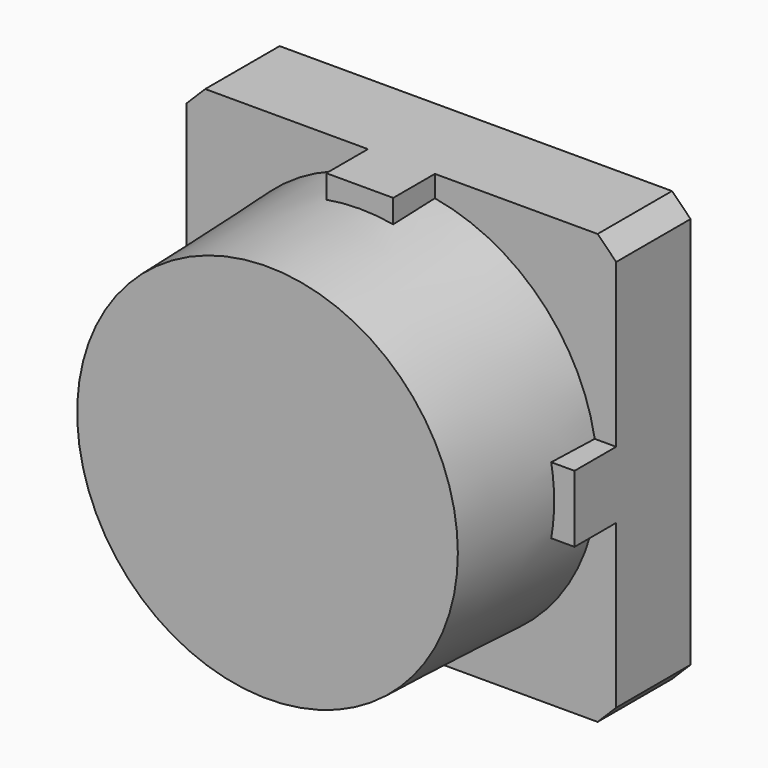
from build123d import *

# Parameters (mm, degrees)
PAD011_DEPTH    = 2.8
SKETCH021_W     = 23.1
SKETCH021_H     = 23.1
PAD012_DEPTH    = 5
SKETCH023_R     = 2.5
PAD013_DEPTH    = 3
FILLET_R        = 2
FILLET001_R     = 7
SKETCH025_R     = 10.55
PAD014_DEPTH    = 9
PAD014_TAPER    = 2
CHAMFER006_SIZE = 1


with BuildPart() as part:
    # Sketch020 → Pad011 (new body)
    with BuildSketch(Plane.XZ):
        Polygon((-1.8, 11.55), (-1.8, 1.8), (-11.55, 1.8), (-11.55, -1.8), (-1.8, -1.8), (-1.8, -11.55), (1.8, -11.55), (1.8, -1.8), (11.55, -1.8), (11.55, 1.8), (1.8, 1.8), (1.8, 11.55), align=None)
    extrude(amount=PAD011_DEPTH)

    # Sketch021 → Pad012 (join)
    with BuildSketch(Plane.XZ):
        Rectangle(SKETCH021_W, SKETCH021_H)
    extrude(amount=-PAD012_DEPTH)

    # Sketch023 (on Face7 of Pad012) → Pad013 (join)
    with BuildSketch(Plane(origin=(0, 5, 0), x_dir=(1, 0, 0), z_dir=(0, 1, 0))):
        Circle(SKETCH023_R)
    extrude(amount=PAD013_DEPTH)

    # Fillet
    fillet_edges = [part.edges().sort_by_distance(p)[0] for p in [
        (-2.5, 8, 0),
    ]]
    fillet(fillet_edges, radius=FILLET_R)

    # Fillet001
    fillet001_edges = [part.edges().sort_by_distance(p)[0] for p in [
        (-2.5, 5, 0),
    ]]
    fillet(fillet001_edges, radius=FILLET001_R)

    # Sketch025 → Pad014 (join)
    with BuildSketch(Plane.XZ):
        Circle(SKETCH025_R)
    extrude(amount=PAD014_DEPTH, taper=PAD014_TAPER)

    # Chamfer006
    chamfer006_edges = [part.edges().sort_by_distance(p)[0] for p in [
        (-11.55, 2.5, 11.55),
        (-11.55, 2.5, -11.55),
        (11.55, 2.5, 11.55),
        (11.55, 2.5, -11.55),
    ]]
    chamfer(chamfer006_edges, length=CHAMFER006_SIZE)


with BuildPart() as part_1:
    # Body012 placement: moved
    add(part.part.moved(Location((0, 2.5, 0))))


solid = part_1.part
